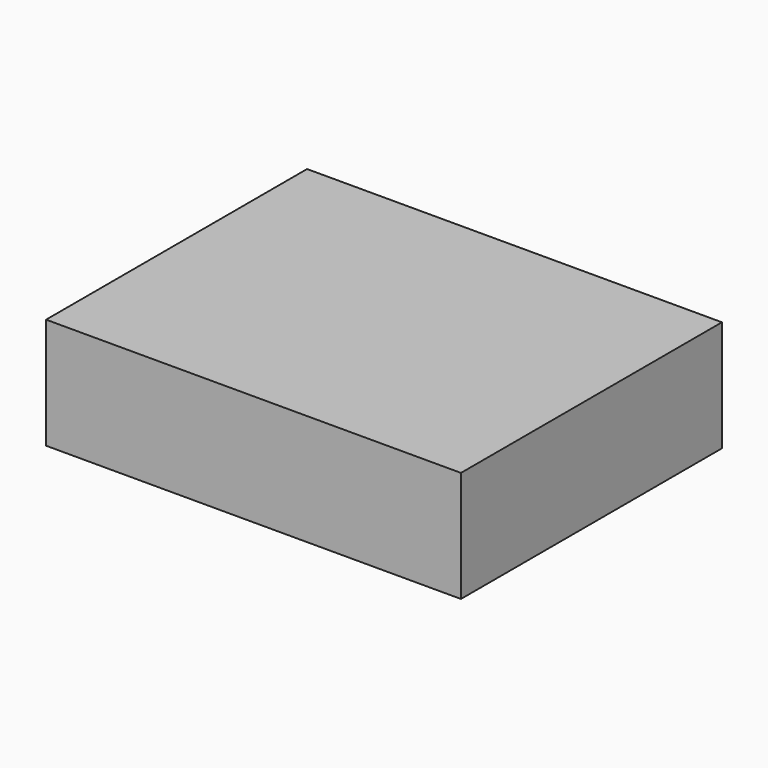
from build123d import *

# Parameters (mm, degrees)
F0_W     = 27.439132
F0_H     = 74.654252
F0_W_2   = 20.03058
F0_W_3   = 47.469713
F1_DEPTH = 25.4


with BuildPart() as f1:
    # F0 (on Top) → F1 (new body)
    with BuildSketch(Plane.XY):
        with Locations((43.628238, 0.341192)):
            Rectangle(F0_W, F0_H)
        with Locations((19.893382, 0.341192)):
            Rectangle(F0_W_2, F0_H)
        with Locations((-13.856764, 0.341192)):
            Rectangle(F0_W_3, F0_H)
    extrude(amount=F1_DEPTH)


solid = f1.part
